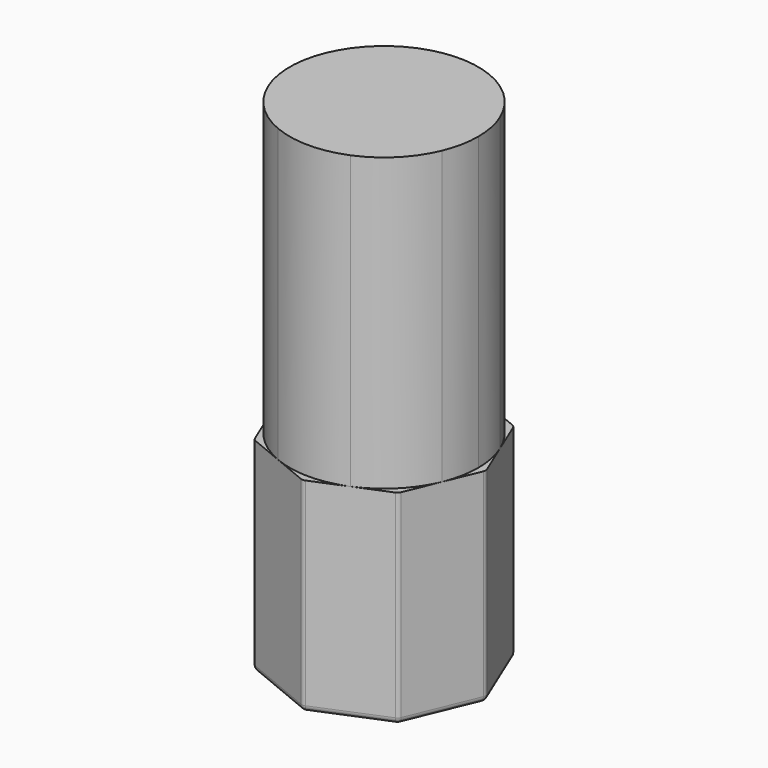
from build123d import *

# Parameters (mm, degrees)
F1_DEPTH = 70
F2_R     = 2
F4_DEPTH = 100


with BuildPart() as f1:
    # F0 (on Top) → F1 (new body)
    with BuildSketch(Plane.XY):
        Polygon((-24.748737, -24.748737), (0, -35), (24.748737, -24.748737), (35, 0), (24.748737, 24.748737), (0, 35), (-24.748737, 24.748737), (-35, 0), align=None)
    extrude(amount=F1_DEPTH)

    # F2
    f2_edges = [f1.edges().sort_by_distance(p)[0] for p in [
        (0, -35, 35),
        (-24.748737, -24.748737, 35),
        (24.748737, -24.748737, 35),
        (35, 0, 35),
        (24.748737, 24.748737, 35),
        (0, 35, 35),
        (-24.748737, 24.748737, 35),
        (-35, 0, 35),
        (-12.374369, -29.874369, 0),
        (12.374369, -29.874369, 0),
        (29.874369, -12.374369, 0),
        (29.874369, 12.374369, 0),
        (12.374369, 29.874369, 0),
        (-12.374369, 29.874369, 0),
        (-29.874369, 12.374369, 0),
        (-29.874369, -12.374369, 0),
    ]]
    fillet(f2_edges, radius=F2_R)

    # F3 (on face) → F4 (join)
    with BuildSketch(Plane.XY.offset(70)):
        with BuildLine():
            ThreePointArc((29.874369, -12.374369), (31.714461, -6.308399), (32.335784, 0))
            ThreePointArc((32.335784, 0), (31.714461, 6.308398), (29.874369, 12.374369))
            ThreePointArc((29.874369, 12.374369), (22.864852, 22.864852), (12.374369, 29.874369))
            ThreePointArc((12.374369, 29.874369), (0, 32.335784), (-12.374368, 29.874369))
            ThreePointArc((-12.374368, 29.874369), (-22.864852, 22.864852), (-29.874369, 12.374369))
            ThreePointArc((-29.874369, 12.374369), (-32.335784, 0), (-29.874369, -12.374369))
            ThreePointArc((-29.874369, -12.374369), (-22.864852, -22.864852), (-12.374369, -29.874369))
            ThreePointArc((-12.374369, -29.874369), (0, -32.335784), (12.374368, -29.874369))
            ThreePointArc((12.374368, -29.874369), (22.864852, -22.864852), (29.874369, -12.374369))
        make_face()
    extrude(amount=F4_DEPTH)


solid = f1.part
